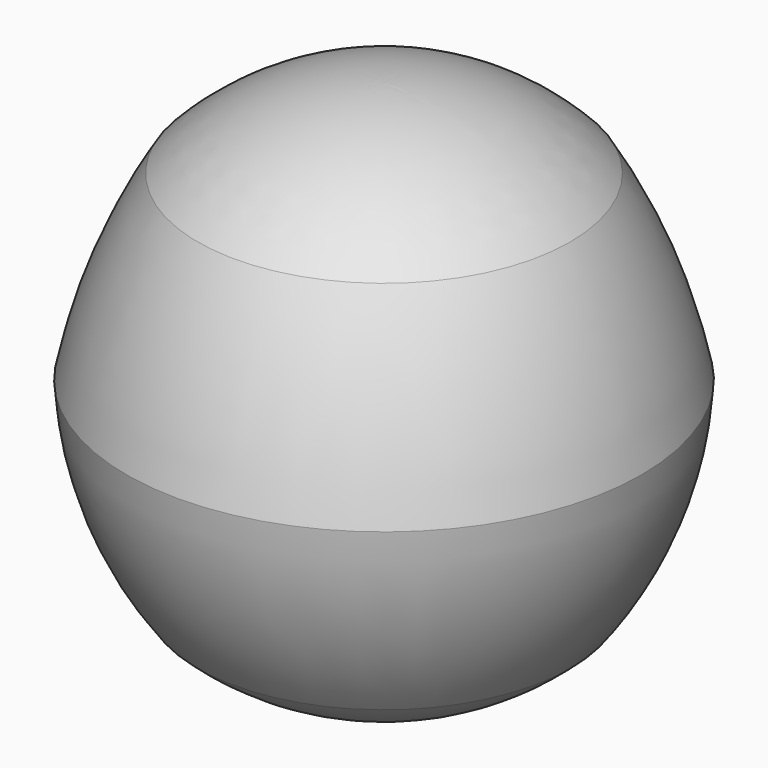
from build123d import *


with BuildPart() as f1:
    # F0 (on Front) → F1 (revolve)
    with BuildSketch(Plane.XZ):
        with BuildLine():
            ThreePointArc((35.770897, 34.894872), (19.432325, 46.131146), (0, 50.079253))
            Line((0, 50.079253), (0, -50.955277))
            ThreePointArc((0, -50.955277), (19.208908, -47.542547), (35.770897, -37.230931))
            ThreePointArc((35.770897, -37.230931), (45.411007, -19.639491), (49.495235, 0))
            ThreePointArc((49.495235, 0), (44.177186, 18.054747), (35.770897, 34.894872))
        make_face()
    revolve(axis=Axis((0, 0, -0.438012), (0, 0, -1)))


solid = f1.part
